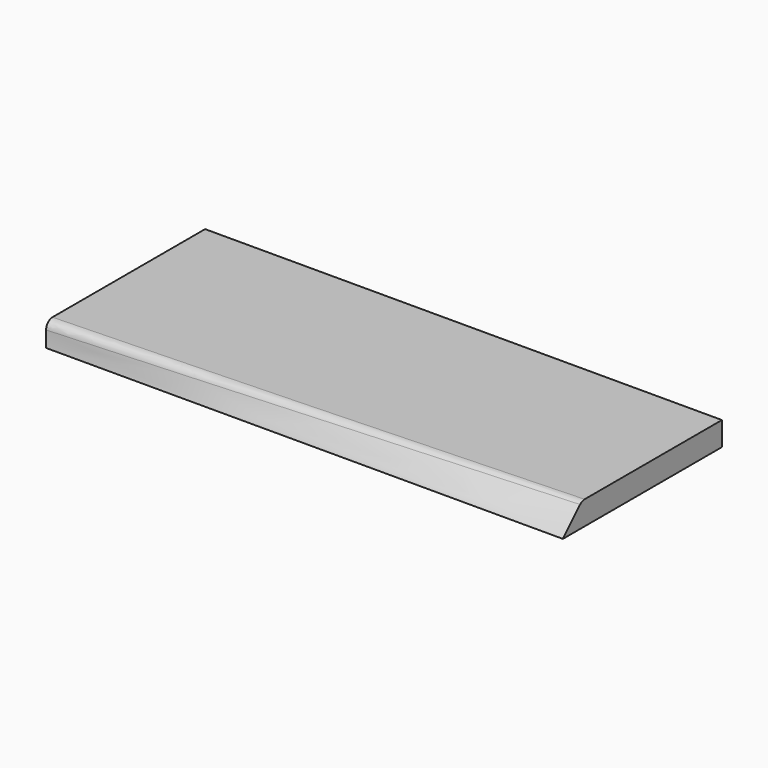
from build123d import *

# Parameters (mm, degrees)
F2_W = 250
F2_H = 30
F4_R = 10


with BuildPart() as f3:
    # F0 (on Right) → F3 section 0
    with BuildSketch(Plane.YZ):
        Polygon((-125, -15), (125, -15), (125, 15), (-95, 15), align=None)
    # F2 (on offset) → F3 section 1
    with BuildSketch(Plane.YZ.offset(-650)):
        Rectangle(F2_W, F2_H)
    loft()

    # F4
    f4_edges = [f3.edges().sort_by_distance(p)[0] for p in [
        (-325, -110, 15),
    ]]
    fillet(f4_edges, radius=F4_R)


solid = f3.part
